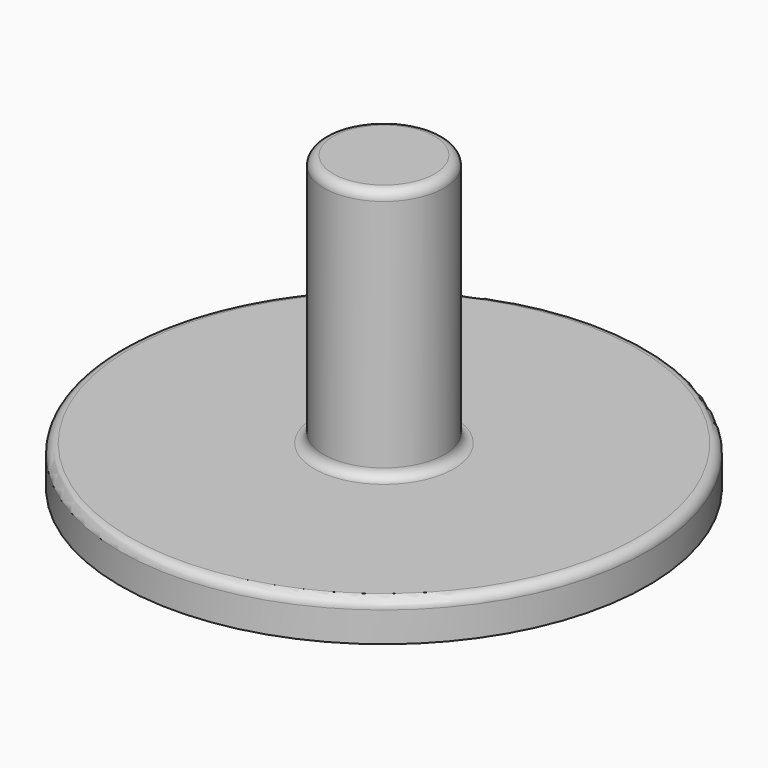
from build123d import *

# Parameters (mm, degrees)
F2_R = 0.3
F3_R = 0.3
F4_R = 0.3


with BuildPart() as f1:
    # F0 (on Right) → F1 (revolve)
    with BuildSketch(Plane.YZ):
        Polygon((1.9, 61.867032), (0, 61.867032), (0, 60.867032), (1.7, 60.867032), (1.7, 52.617032), (8.325, 52.617032), (8.325, 53.867032), (1.9, 53.867032), align=None)
    revolve(axis=Axis((0, 0, 61.367032), (0, 0, 1)))

    # F2
    f2_edges = [f1.edges().sort_by_distance(p)[0] for p in [
        (0, -1.9, 61.867032),
    ]]
    fillet(f2_edges, radius=F2_R)

    # F3
    f3_edges = [f1.edges().sort_by_distance(p)[0] for p in [
        (0, -8.325, 53.867032),
    ]]
    fillet(f3_edges, radius=F3_R)

    # F4
    f4_edges = [f1.edges().sort_by_distance(p)[0] for p in [
        (0, -1.9, 53.867032),
    ]]
    fillet(f4_edges, radius=F4_R)


solid = f1.part
